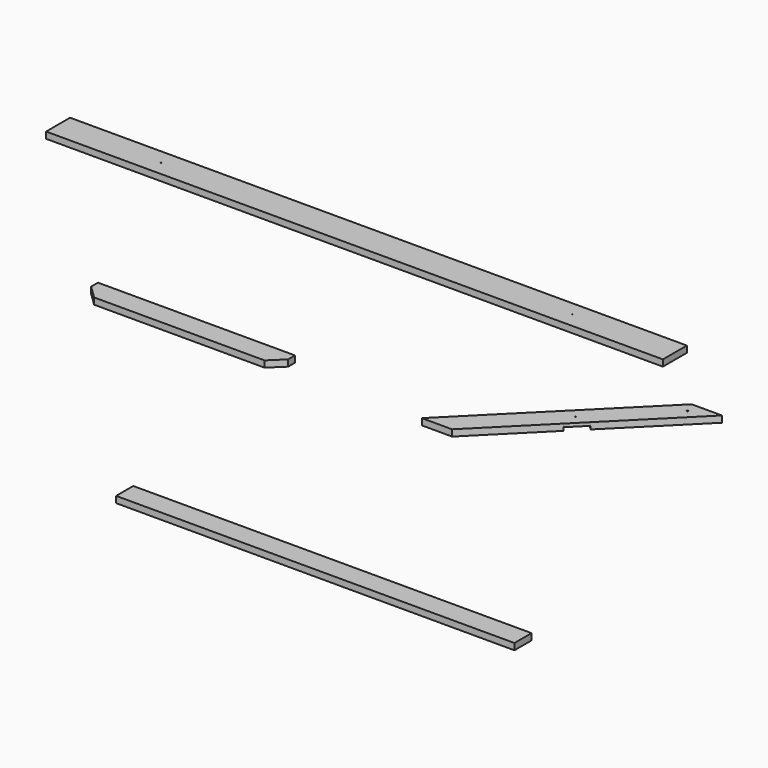
from build123d import *

# Parameters (mm, degrees)
F0_R     = 1.27
F4_DEPTH = 19.05
F5_DEPTH = 19.05
F3_W     = 1181.1
F3_H     = 63.5
F6_DEPTH = 19.05
F2_R     = 2.54
F7_DEPTH = 19.05
F8_DEPTH = 9.525


with BuildPart() as f4:
    # F0 (on Top) → F4 (new body)
    with BuildSketch(Plane.XY):
        Polygon((463.2404299736, 866.4432381392), (-1365.5595700264, 866.4432381392), (-1365.5595700264, 777.5432381392), (463.2404299736, 777.5432381392), (463.2404299736, 821.9932381392), align=None)
        with Locations((-1060.7595700264, 821.9932381392)):
            Circle(F0_R, mode=Mode.SUBTRACT)
        with Locations((158.4404299736, 821.9932381392)):
            Circle(F0_R, mode=Mode.SUBTRACT)
    extrude(amount=F4_DEPTH)


with BuildPart() as f5:
    # F1 (on Top) → F5 (new body)
    with BuildSketch(Plane.XY):
        Polygon((-214.2413890027, 261.0249788087), (-506.3413890027, 261.0249788087), (-506.3413890027, 197.5249788087), (-253.6544868998, 197.5249788087), (-214.2413890027, 235.6249788087), align=None)
        Polygon((-506.3413890027, 261.0249788087), (-798.4413890027, 261.0249788087), (-798.4413890027, 235.6249788087), (-759.0282911055, 197.5249788087), (-506.3413890027, 197.5249788087), align=None)
    extrude(amount=F5_DEPTH)


with BuildPart() as f6:
    # F3 (on Top) → F6 (new body)
    with BuildSketch(Plane.XY):
        with Locations((492.76, -515.9154869616)):
            Rectangle(F3_W, F3_H)
    extrude(amount=F6_DEPTH)


with BuildPart() as f7:
    # F2 (on Top) → F7 (new body)
    with BuildSketch(Plane.XY):
        Polygon((484.3747253485, 382.1495120954), (439.4734447431, 427.0507927008), (211.3247253485, 198.9020733061), (301.1272865592, 198.9020733061), align=None)
        Polygon((529.2760059538, 427.0507927008), (484.3747253485, 471.9520733061), (439.4734447431, 427.0507927008), (484.3747253485, 382.1495120954), align=None)
        with BuildLine():
            ThreePointArc((485.2727509606, 427.9488183129), (485.5480523548, 427.5368006599), (485.6447253485, 427.0507927008))
            ThreePointArc((485.6447253485, 427.0507927008), (485.5480523548, 426.5647847417), (485.2727509606, 426.1527670887))
            ThreePointArc((485.2727509606, 426.1527670887), (484.3747253485, 425.7807927008), (483.4766997364, 426.1527670887))
            ThreePointArc((483.4766997364, 426.1527670887), (483.1047253485, 427.0507927008), (483.4766997364, 427.9488183129))
            ThreePointArc((483.4766997364, 427.9488183129), (484.3747253485, 428.3207927008), (485.2727509606, 427.9488183129))
        make_face(mode=Mode.SUBTRACT)
        Polygon((745.6272865592, 643.4020733061), (655.8247253485, 643.4020733061), (484.3747253485, 471.9520733061), (529.2760059538, 427.0507927008), align=None)
        with Locations((668.9760059538, 611.6520733061)):
            Circle(F2_R, mode=Mode.SUBTRACT)
    extrude(amount=F7_DEPTH)

    # F2 (on Top) → F8 (cut)
    with BuildSketch(Plane.XY):
        Polygon((529.2760059538, 427.0507927008), (484.3747253485, 471.9520733061), (439.4734447431, 427.0507927008), (484.3747253485, 382.1495120954), align=None)
        with BuildLine():
            ThreePointArc((485.2727509606, 427.9488183129), (485.5480523548, 427.5368006599), (485.6447253485, 427.0507927008))
            ThreePointArc((485.6447253485, 427.0507927008), (485.5480523548, 426.5647847417), (485.2727509606, 426.1527670887))
            ThreePointArc((485.2727509606, 426.1527670887), (484.3747253485, 425.7807927008), (483.4766997364, 426.1527670887))
            ThreePointArc((483.4766997364, 426.1527670887), (483.1047253485, 427.0507927008), (483.4766997364, 427.9488183129))
            ThreePointArc((483.4766997364, 427.9488183129), (484.3747253485, 428.3207927008), (485.2727509606, 427.9488183129))
        make_face(mode=Mode.SUBTRACT)
    extrude(amount=F8_DEPTH, mode=Mode.SUBTRACT)


solid = Compound([f4.part, f5.part, f6.part, f7.part])
